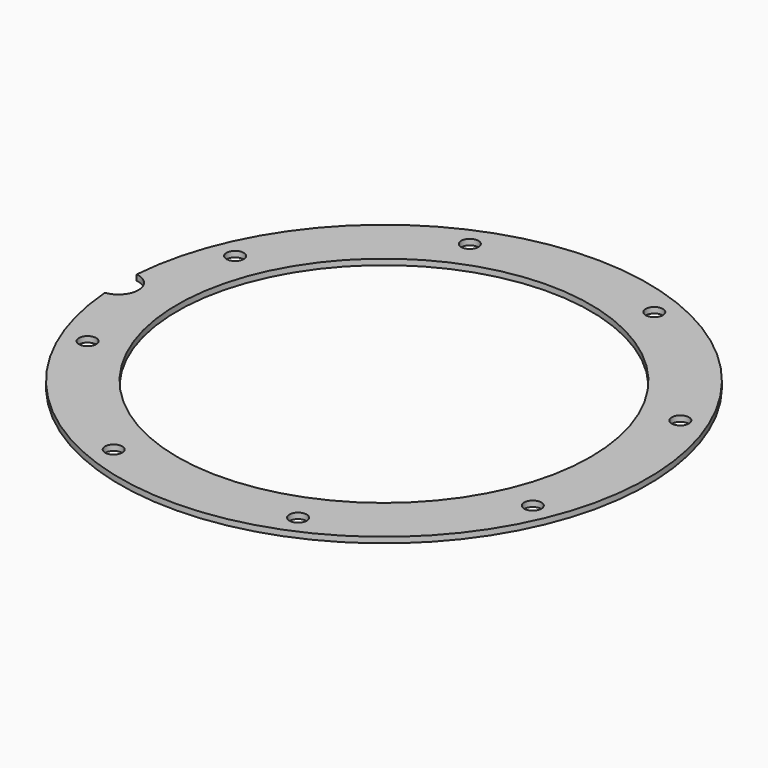
from build123d import *

# Parameters (mm, degrees)
BOX139_W                    = 6
BOX139_H                    = 8
BOX139_DEPTH                = 2
BOX139_PLACEMENT_ANGLE      = 45
BOX143_W                    = 6
BOX143_H                    = 8
BOX143_DEPTH                = 2
BOX140_W                    = 6
BOX140_H                    = 8
BOX140_DEPTH                = 2
BOX141_W                    = 6
BOX141_H                    = 8
BOX141_DEPTH                = 2
BOX141_PLACEMENT_ANGLE      = 135
BOX142_W                    = 6
BOX142_H                    = 8
BOX142_DEPTH                = 2
BOX146_W                    = 6
BOX146_H                    = 8
BOX146_DEPTH                = 2
BOX146_PLACEMENT_ANGLE      = 225
BOX144_W                    = 6
BOX144_H                    = 8
BOX144_DEPTH                = 2
BOX145_W                    = 6
BOX145_H                    = 8
BOX145_DEPTH                = 2
BOX145_PLACEMENT_ANGLE      = 45
COMPOUND290_PLACEMENT_ANGLE = 22.5
CYLINDER359_R               = 1.5
CYLINDER359_DEPTH           = 12
CYLINDER359_PLACEMENT_ANGLE = 45
CYLINDER360_R               = 1.5
CYLINDER360_DEPTH           = 12
CYLINDER361_R               = 1.5
CYLINDER361_DEPTH           = 12
CYLINDER361_PLACEMENT_ANGLE = 135
CYLINDER356_R               = 1.5
CYLINDER356_DEPTH           = 12
CYLINDER362_R               = 1.5
CYLINDER362_DEPTH           = 12
CYLINDER362_PLACEMENT_ANGLE = 225
CYLINDER358_R               = 1.5
CYLINDER358_DEPTH           = 12
CYLINDER357_R               = 1.5
CYLINDER357_DEPTH           = 12
CYLINDER357_PLACEMENT_ANGLE = 45
CYLINDER355_R               = 1.5
CYLINDER355_DEPTH           = 12
COMPOUND291_PLACEMENT_ANGLE = 22.5
CYLINDER364_R               = 3.5
CYLINDER364_DEPTH           = 20
TUBE034_R                   = 46
TUBE034_R_2                 = 36
TUBE034_DEPTH               = 1


with BuildPart() as krychle139:
    # Box139 → Box139 (new body)
    with BuildSketch(Plane.XY):
        with Locations((3, 4)):
            Rectangle(BOX139_W, BOX139_H)
    extrude(amount=BOX139_DEPTH)


with BuildPart() as krychle139_1:
    # Box139 placement: moved
    add(krychle139.part.moved(Location((30.405592, -34.648232, 33))).rotate(Axis((30.405592, -34.648232, 33), (0, 0, 1)), BOX139_PLACEMENT_ANGLE))


with BuildPart() as krychle143:
    # Box143 → Box143 (new body)
    with BuildSketch(Plane(origin=(46, -3, 33), x_dir=(0, 1, 0), z_dir=(0, 0, 1))):
        with Locations((3, 4)):
            Rectangle(BOX143_W, BOX143_H)
    extrude(amount=BOX143_DEPTH)


with BuildPart() as krychle140:
    # Box140 → Box140 (new body)
    with BuildSketch(Plane(origin=(-3, -46, 33), x_dir=(1, 0, 0), z_dir=(0, 0, 1))):
        with Locations((3, 4)):
            Rectangle(BOX140_W, BOX140_H)
    extrude(amount=BOX140_DEPTH)


with BuildPart() as krychle141:
    # Box141 → Box141 (new body)
    with BuildSketch(Plane.XY):
        with Locations((3, 4)):
            Rectangle(BOX141_W, BOX141_H)
    extrude(amount=BOX141_DEPTH)


with BuildPart() as krychle141_1:
    # Box141 placement: moved
    add(krychle141.part.moved(Location((34.648232, 30.405592, 33))).rotate(Axis((34.648232, 30.405592, 33), (0, 0, 1)), BOX141_PLACEMENT_ANGLE))


with BuildPart() as krychle142:
    # Box142 → Box142 (new body)
    with BuildSketch(Plane(origin=(3, 46, 33), x_dir=(-1, 0, 0), z_dir=(0, 0, 1))):
        with Locations((3, 4)):
            Rectangle(BOX142_W, BOX142_H)
    extrude(amount=BOX142_DEPTH)


with BuildPart() as krychle146:
    # Box146 → Box146 (new body)
    with BuildSketch(Plane.XY):
        with Locations((3, 4)):
            Rectangle(BOX146_W, BOX146_H)
    extrude(amount=BOX146_DEPTH)


with BuildPart() as krychle146_1:
    # Box146 placement: moved
    add(krychle146.part.moved(Location((-30.405592, 34.648232, 33))).rotate(Axis((-30.405592, 34.648232, 33), (0, 0, 1)), BOX146_PLACEMENT_ANGLE))


with BuildPart() as krychle144:
    # Box144 → Box144 (new body)
    with BuildSketch(Plane(origin=(-46, 3, 33), x_dir=(0, -1, 0), z_dir=(0, 0, 1))):
        with Locations((3, 4)):
            Rectangle(BOX144_W, BOX144_H)
    extrude(amount=BOX144_DEPTH)


with BuildPart() as compound290:
    # Box145 → Box145 (new body)
    with BuildSketch(Plane.XY):
        with Locations((3, 4)):
            Rectangle(BOX145_W, BOX145_H)
    extrude(amount=BOX145_DEPTH)


with BuildPart() as compound290_1:
    # Box145 placement: moved
    add(compound290.part.moved(Location((-34.648232, -30.405592, 33))).rotate(Axis((-34.648232, -30.405592, 33), (0, 0, -1)), BOX145_PLACEMENT_ANGLE))

    # Compound290: union Krychle139, Krychle143, Krychle140, Krychle141, Krychle142, Krychle146, Krychle144
    add(krychle139_1.part)
    add(krychle143.part)
    add(krychle140.part)
    add(krychle141_1.part)
    add(krychle142.part)
    add(krychle146_1.part)
    add(krychle144.part)


with BuildPart() as compound290_2:
    # Compound290 placement: moved
    add(compound290_1.part.rotate(Axis((0, 0, 0), (0, 0, 1)), COMPOUND290_PLACEMENT_ANGLE))


with BuildPart() as obj1:
    # Cylinder359 → Cylinder359 (new body)
    with BuildSketch(Plane.XY):
        Circle(CYLINDER359_R)
    extrude(amount=CYLINDER359_DEPTH)


with BuildPart() as obj1_1:
    # Cylinder359 placement: moved
    add(obj1.part.moved(Location((29.698485, -29.698485, 33.5))).rotate(Axis((29.698485, -29.698485, 33.5), (0, 0, 1)), CYLINDER359_PLACEMENT_ANGLE))


with BuildPart() as obj2:
    # Cylinder360 → Cylinder360 (new body)
    with BuildSketch(Plane(origin=(42, 0, 33.5), x_dir=(0, 1, 0), z_dir=(0, 0, 1))):
        Circle(CYLINDER360_R)
    extrude(amount=CYLINDER360_DEPTH)


with BuildPart() as obj3:
    # Cylinder361 → Cylinder361 (new body)
    with BuildSketch(Plane.XY):
        Circle(CYLINDER361_R)
    extrude(amount=CYLINDER361_DEPTH)


with BuildPart() as obj3_1:
    # Cylinder361 placement: moved
    add(obj3.part.moved(Location((29.698485, 29.698485, 33.5))).rotate(Axis((29.698485, 29.698485, 33.5), (0, 0, 1)), CYLINDER361_PLACEMENT_ANGLE))


with BuildPart() as obj4:
    # Cylinder356 → Cylinder356 (new body)
    with BuildSketch(Plane(origin=(0, 42, 33.5), x_dir=(-1, 0, 0), z_dir=(0, 0, 1))):
        Circle(CYLINDER356_R)
    extrude(amount=CYLINDER356_DEPTH)


with BuildPart() as obj5:
    # Cylinder362 → Cylinder362 (new body)
    with BuildSketch(Plane.XY):
        Circle(CYLINDER362_R)
    extrude(amount=CYLINDER362_DEPTH)


with BuildPart() as obj5_1:
    # Cylinder362 placement: moved
    add(obj5.part.moved(Location((-29.698485, 29.698485, 33.5))).rotate(Axis((-29.698485, 29.698485, 33.5), (0, 0, 1)), CYLINDER362_PLACEMENT_ANGLE))


with BuildPart() as obj6:
    # Cylinder358 → Cylinder358 (new body)
    with BuildSketch(Plane(origin=(-42, 0, 33.5), x_dir=(0, -1, 0), z_dir=(0, 0, 1))):
        Circle(CYLINDER358_R)
    extrude(amount=CYLINDER358_DEPTH)


with BuildPart() as obj7:
    # Cylinder357 → Cylinder357 (new body)
    with BuildSketch(Plane.XY):
        Circle(CYLINDER357_R)
    extrude(amount=CYLINDER357_DEPTH)


with BuildPart() as obj7_1:
    # Cylinder357 placement: moved
    add(obj7.part.moved(Location((-29.698485, -29.698485, 33.5))).rotate(Axis((-29.698485, -29.698485, 33.5), (0, 0, -1)), CYLINDER357_PLACEMENT_ANGLE))


with BuildPart() as compound291:
    # Cylinder355 → Cylinder355 (new body)
    with BuildSketch(Plane(origin=(0, -42, 33.5), x_dir=(1, 0, 0), z_dir=(0, 0, 1))):
        Circle(CYLINDER355_R)
    extrude(amount=CYLINDER355_DEPTH)

    # Compound291: union obj1, obj2, obj3, obj4, obj5, obj6, obj7
    add(obj1_1.part)
    add(obj2.part)
    add(obj3_1.part)
    add(obj4.part)
    add(obj5_1.part)
    add(obj6.part)
    add(obj7_1.part)


with BuildPart() as compound291_1:
    # Compound291 placement: moved
    add(compound291.part.rotate(Axis((0, 0, 0), (0, 0, 1)), COMPOUND291_PLACEMENT_ANGLE))


with BuildPart() as obj8:
    # Cylinder364 → Cylinder364 (new body)
    with BuildSketch(Plane(origin=(-46.3, 0, 29), x_dir=(1, 0, 0), z_dir=(0, 0, 1))):
        Circle(CYLINDER364_R)
    extrude(amount=CYLINDER364_DEPTH)


with BuildPart() as cut146:
    # Tube034 → Tube034 (new body)
    with BuildSketch(Plane.XY.offset(37)):
        Circle(TUBE034_R)
        Circle(TUBE034_R_2, mode=Mode.SUBTRACT)
    extrude(amount=TUBE034_DEPTH)

    # Cut144: cut obj8
    add(obj8.part, mode=Mode.SUBTRACT)

    # Cut145: cut Compound291
    add(compound291_1.part, mode=Mode.SUBTRACT)

    # Cut146: cut Compound290
    add(compound290_2.part, mode=Mode.SUBTRACT)


solid = cut146.part
